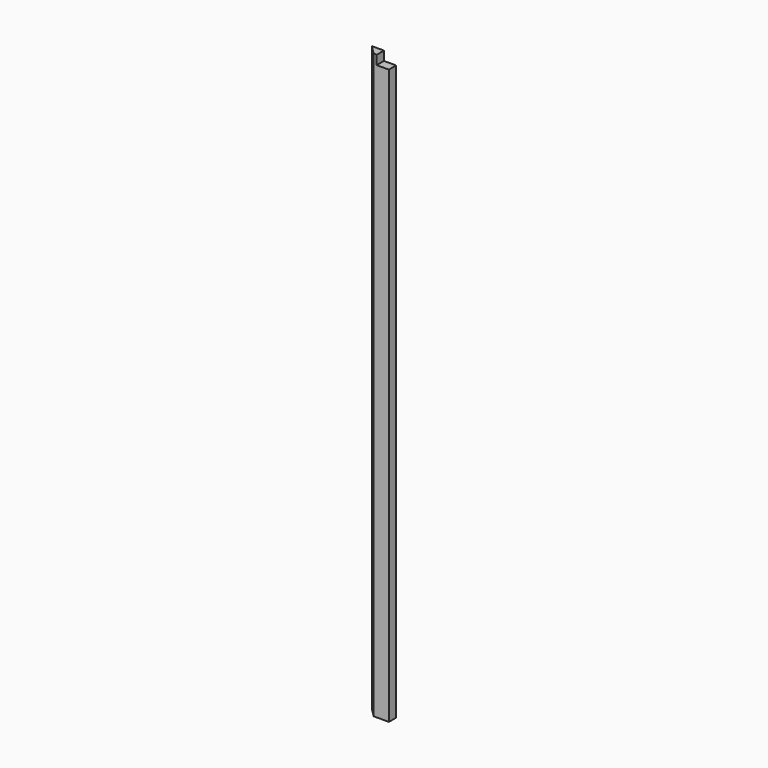
from build123d import *

# Parameters (mm, degrees)
F1_DEPTH = 1219.2
F2_W     = 25.4
F2_H     = 19.05
F3_DEPTH = 19.051


with BuildPart() as f1:
    # F0 (on Top) → F1 (new body)
    with BuildSketch(Plane.XY):
        Polygon((-31.75, 0), (0, 0), (0, 19.05), (-50.8, 19.05), align=None)
    extrude(amount=-F1_DEPTH)

    # F2 (on face) → F3 (cut, through all)
    with BuildSketch(Plane(origin=(0, 19.05, 0), x_dir=(-1, 0, 0), z_dir=(0, 1, 0))):
        with Locations((12.7, -9.525)):
            Rectangle(F2_W, F2_H)
    extrude(amount=-F3_DEPTH, mode=Mode.SUBTRACT)


solid = f1.part
